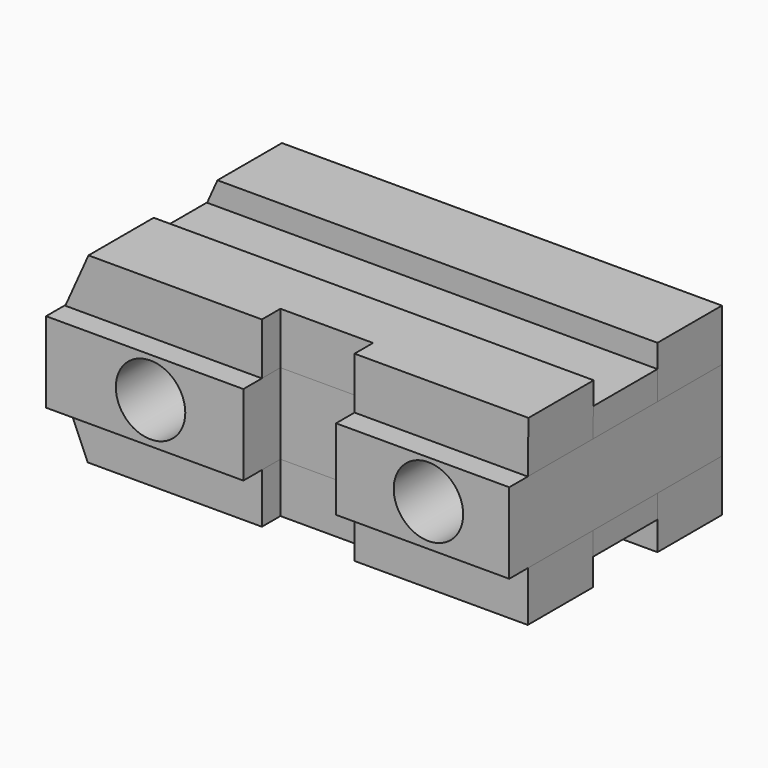
from build123d import *

# Parameters (mm, degrees)
F1_DEPTH  = 22.098
F3_DEPTH  = 22.098
F5_DEPTH  = 22.352
F6_DEPTH  = 72.898
F7_W      = 25.4
F7_H      = 14.224
F7_H_2    = 21.595204249
F7_H_3    = 14.2253637884
F8_DEPTH  = 6.35
F9_W      = 25.4
F9_H      = 22.098
F10_DEPTH = 6.35
F14_R     = 9.525
F15_DEPTH = 41.148


with BuildPart() as f1:
    # F0 (on Front) → F1 (new body)
    with BuildSketch(Plane.XZ):
        Polygon((-47.498, 0), (0, 0), (0, 14.224), (-47.498, 14.224), (-70.5205784659, 14.224), (-120.65, 14.224), (-127, 0), (-70.5205784659, 0), align=None)
    extrude(amount=F1_DEPTH)


with BuildPart() as f1b:
    # F0 (on Front) → F1, piece 2 (new body)
    with BuildSketch(Plane.XZ):
        Polygon((0, -36.322), (0, -22.098), (-47.498, -22.098), (-70.5205784659, -22.098), (-127, -22.098), (-120.65, -36.322), (-70.5205784659, -36.322), (-47.498, -36.322), align=None)
    extrude(amount=F1_DEPTH)


with BuildPart() as f3:
    # F2 (on face) → F3 (new body)
    with BuildSketch(Plane.XZ.offset(22.098)):
        Polygon((-127, -22.098), (-123.825, -28.448), (0, -28.448), (0, -22.098), align=None)
    extrude(amount=F3_DEPTH)


with BuildPart() as f3b:
    # F2 (on face) → F3, piece 2 (new body)
    with BuildSketch(Plane.XZ.offset(22.098)):
        Polygon((0, 0), (0, 7.874), (-35.5134345591, 7.874), (-123.5816627741, 7.874), (-126.8030256033, 0), align=None)
    extrude(amount=F3_DEPTH)


with BuildPart() as f5:
    # F4 (on face) → F5 (new body)
    with BuildSketch(Plane.XZ.offset(44.196)):
        Polygon((-120.4530256033, 14.224), (-126.8030256033, 0), (0, 0), (0.1969743967, 14.224), align=None)
    extrude(amount=F5_DEPTH)


with BuildPart() as f5b:
    # F4 (on face) → F5, piece 2 (new body)
    with BuildSketch(Plane.XZ.offset(44.196)):
        Polygon((0, -21.595204249), (-126.8030256033, -21.595204249), (-120.65, -35.8205680374), (0, -35.8205680374), align=None)
    extrude(amount=F5_DEPTH)


with BuildPart() as f6:
    # F0 (on Front) → F6 (new body)
    with BuildSketch(Plane.XZ):
        Polygon((0, -22.098), (0, 0), (-47.498, 0), (-70.5205784659, 0), (-127, 0), (-127, -22.098), (-70.5205784659, -22.098), (-47.498, -22.098), align=None)
    extrude(amount=F6_DEPTH)


with BuildPart() as f8_tool:
    # F7 (on face) → F8 (new body)
    with BuildSketch(Plane.XZ.offset(66.548)):
        with Locations((-60.198, 7.112)):
            Rectangle(F7_W, F7_H)
        with Locations((-60.198, -10.7976021245)):
            Rectangle(F7_W, F7_H_2)
        with Locations((-60.198, -28.7078861432)):
            Rectangle(F7_W, F7_H_3)
    extrude(amount=-F8_DEPTH)


with BuildPart() as f5_1:
    add(f5.part)

    # F8: cut by f8_tool
    add(f8_tool.part, mode=Mode.SUBTRACT)


with BuildPart() as f5b_1:
    add(f5b.part)

    # F8: cut by f8_tool
    add(f8_tool.part, mode=Mode.SUBTRACT)


with BuildPart() as f6_1:
    add(f6.part)

    # F8: cut by f8_tool
    add(f8_tool.part, mode=Mode.SUBTRACT)

    # F9 (on face) → F10 (cut)
    with BuildSketch(Plane.XZ.offset(72.898)):
        with Locations((-60.198, -11.049)):
            Rectangle(F9_W, F9_H)
    extrude(amount=-F10_DEPTH, mode=Mode.SUBTRACT)

    # F14 (on face) → F15 (cut)
    with BuildSketch(Plane.XZ.offset(72.898)):
        with Locations((-98.3550256033, -10.9056882328)):
            Circle(F14_R)
        with Locations((-22.1550256033, -10.673204249)):
            Circle(F14_R)
    extrude(amount=-F15_DEPTH, mode=Mode.SUBTRACT)


solid = Compound([f1.part, f1b.part, f3.part, f3b.part, f5_1.part, f5b_1.part, f6_1.part])
